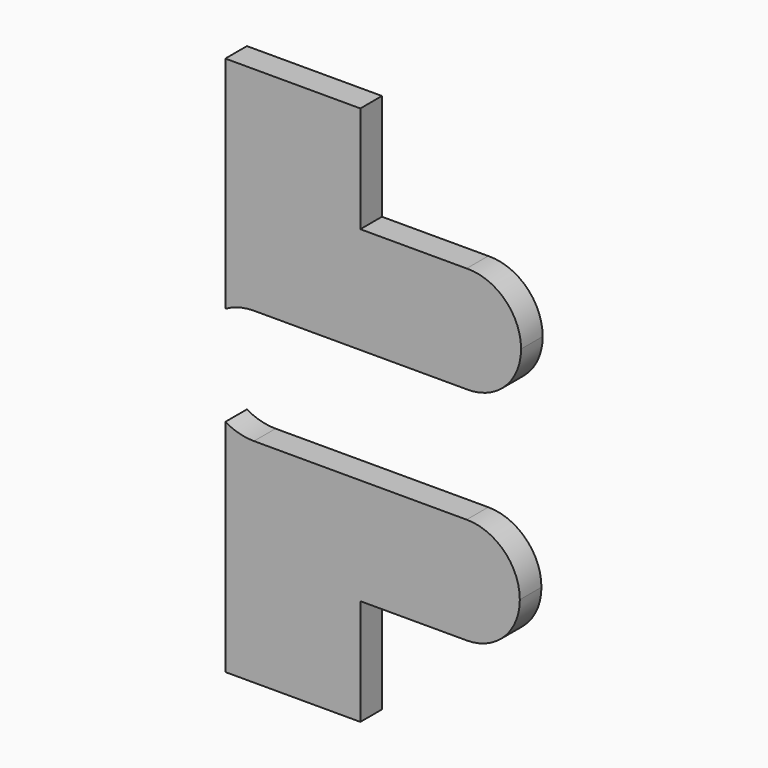
from build123d import *

# Parameters (mm, degrees)
F1_DEPTH = 2.54


with BuildPart() as f1:
    # F0 (on Front) → F1 (new body)
    with BuildSketch(Plane.XZ):
        with BuildLine():
            Line((114.3, 5.488802), (114.3, -15.230665))
            Line((114.3, -15.230665), (127, -15.230665))
            Line((127, -15.230665), (127, -5.230665))
            Line((127, -5.230665), (127, 4.769335))
            Line((127, 4.769335), (116.9924, 4.769335))
            ThreePointArc((116.9924, 4.769335), (115.598964, 4.952303), (114.3, 5.488802))
        make_face()
        with BuildLine():
            Line((114.3, 35.569335), (114.3, 14.844867))
            ThreePointArc((114.3, 14.844867), (115.598964, 15.381367), (116.9924, 15.564335))
            Line((116.9924, 15.564335), (127, 15.564335))
            Line((127, 15.564335), (127, 25.569335))
            Line((127, 25.569335), (127, 35.569335))
            Line((127, 35.569335), (114.3, 35.569335))
        make_face()
        with BuildLine():
            ThreePointArc((137, 25.569335), (132.110253, 20.566835), (137, 15.564335))
            ThreePointArc((137, 15.564335), (140.611718, 16.988517), (142.117853, 20.566835))
            ThreePointArc((142.117853, 20.566835), (140.611718, 24.145152), (137, 25.569335))
        make_face()
        with BuildLine():
            Line((127, 25.569335), (127, 15.564335))
            Line((127, 15.564335), (137, 15.564335))
            ThreePointArc((137, 15.564335), (132.110253, 20.566835), (137, 25.569335))
            Line((137, 25.569335), (127, 25.569335))
        make_face()
        with BuildLine():
            ThreePointArc((137, 4.769335), (132, -0.230665), (137, -5.230665))
            ThreePointArc((137, -5.230665), (140.535534, -3.766199), (142, -0.230665))
            ThreePointArc((142, -0.230665), (140.535534, 3.304869), (137, 4.769335))
        make_face()
        with BuildLine():
            Line((127, 4.769335), (127, -5.230665))
            Line((127, -5.230665), (137, -5.230665))
            ThreePointArc((137, -5.230665), (132, -0.230665), (137, 4.769335))
            Line((137, 4.769335), (127, 4.769335))
        make_face()
    extrude(amount=F1_DEPTH)


solid = f1.part
